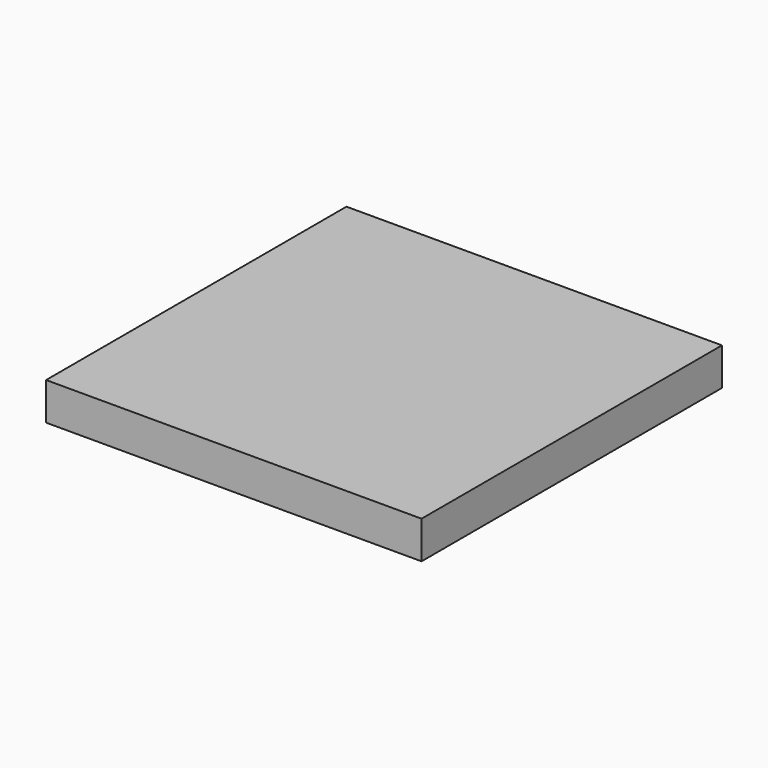
from build123d import *

# Parameters (mm, degrees)
F1_W     = 25.4
F1_H     = 25.4
F2_DEPTH = 2.54


with BuildPart() as f2:
    # F1 (on offset) → F2 (new body)
    with BuildSketch(Plane.XY.offset(25.4)):
        with Locations((7.126842, 0.964268)):
            Rectangle(F1_W, F1_H)
    extrude(amount=-F2_DEPTH)


solid = f2.part
